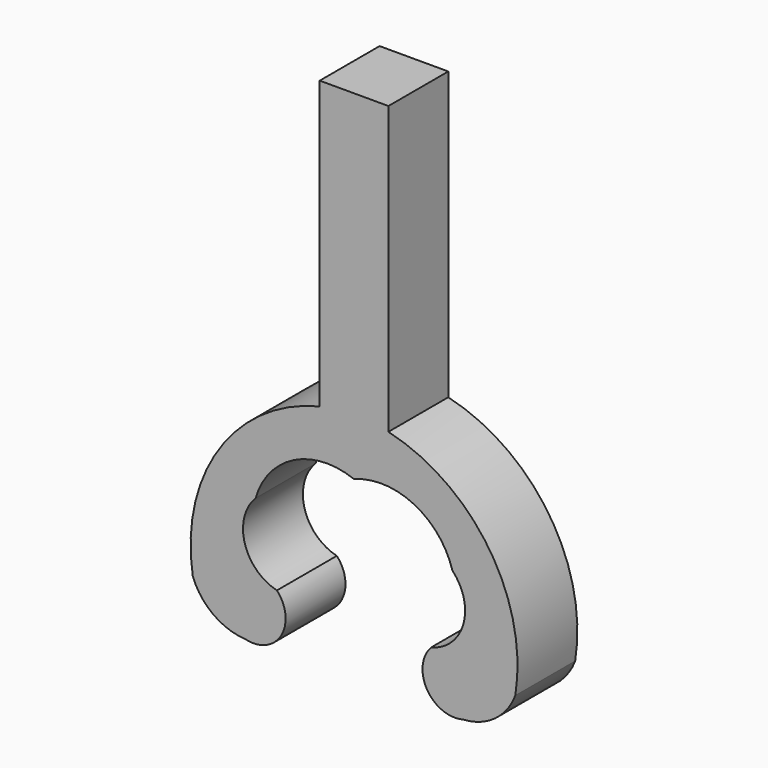
from build123d import *

# Parameters (mm, degrees)
F1_DEPTH = 5.08


with BuildPart() as f1:
    # F0 (on Front) → F1 (new body)
    with BuildSketch(Plane.XZ):
        with BuildLine():
            Line((-2.331354, 19.470736), (-2.331354, 0))
            ThreePointArc((-2.331354, 0), (-9.180507, -4.784652), (-10.948811, -12.950245))
            ThreePointArc((-10.948811, -12.950245), (-9.562296, -14.777595), (-7.400639, -15.544976))
            ThreePointArc((-7.400639, -15.544976), (-4.957759, -14.557545), (-5.236087, -11.937389))
            ThreePointArc((-5.236087, -11.937389), (-7.423099, -9.830791), (-6.679121, -6.886768))
            ThreePointArc((-6.679121, -6.886768), (-4.067414, -3.763698), (0, -3.588403))
            ThreePointArc((0, -3.588403), (4.067414, -3.763698), (6.679121, -6.886768))
            ThreePointArc((6.679121, -6.886768), (7.423099, -9.830791), (5.236087, -11.937389))
            ThreePointArc((5.236087, -11.937389), (4.957759, -14.557545), (7.400639, -15.544976))
            ThreePointArc((7.400639, -15.544976), (9.562296, -14.777595), (10.948811, -12.950245))
            ThreePointArc((10.948811, -12.950245), (9.180507, -4.784652), (2.331354, 0))
            Line((2.331354, 0), (2.331354, 19.470736))
            Line((2.331354, 19.470736), (0, 19.470736))
            Line((0, 19.470736), (-2.331354, 19.470736))
        make_face()
    extrude(amount=F1_DEPTH)


solid = f1.part
